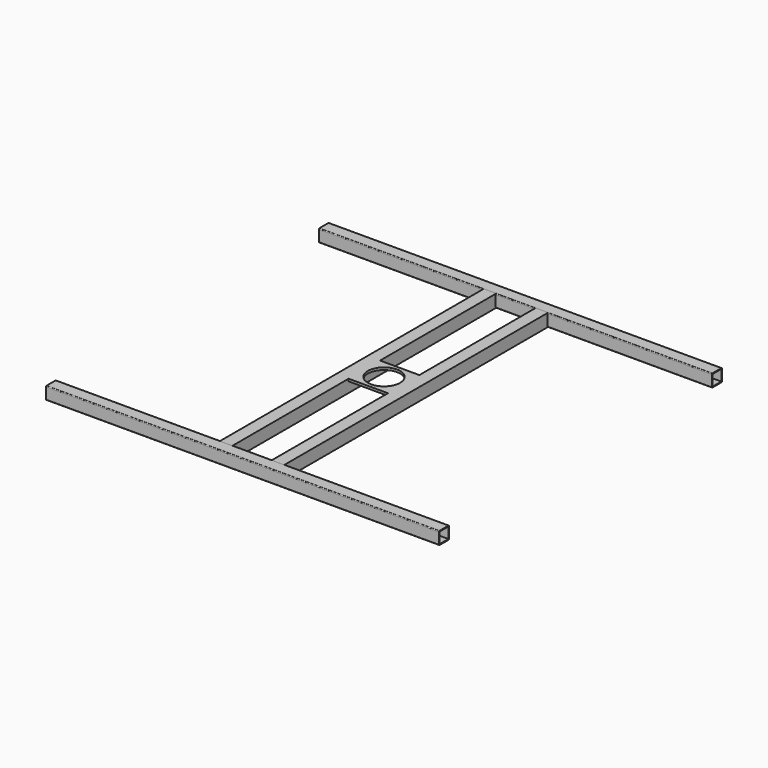
from build123d import *

# Parameters (mm, degrees)
F0_W     = 28
F0_H     = 28
F1_DEPTH = 500
F2_W     = 32
F2_H     = 32
F2_W_2   = 28
F2_H_2   = 28
F3_DEPTH = 420.3
F4_W     = 100
F4_H     = 100
F5_DEPTH = 6
F6_R     = 41
F7_DEPTH = 25


with BuildPart() as f1:
    # F0 (on Right) → F1 (new body, symmetric)
    with BuildSketch(Plane.YZ):
        with BuildLine():
            ThreePointArc((-450, -14), (-449.414214, -15.414214), (-448, -16))
            Line((-448, -16), (-420, -16))
            ThreePointArc((-420, -16), (-418.585786, -15.414214), (-418, -14))
            Line((-418, -14), (-418, 14))
            ThreePointArc((-418, 14), (-418.585786, 15.414214), (-420, 16))
            Line((-420, 16), (-448, 16))
            ThreePointArc((-448, 16), (-449.414214, 15.414214), (-450, 14))
            Line((-450, 14), (-450, -14))
        make_face()
        with Locations((-434, 0)):
            Rectangle(F0_W, F0_H, mode=Mode.SUBTRACT)
        with BuildLine():
            ThreePointArc((450, 14), (449.414214, 15.414214), (448, 16))
            Line((448, 16), (420, 16))
            ThreePointArc((420, 16), (418.585786, 15.414214), (418, 14))
            Line((418, 14), (418, -14))
            ThreePointArc((418, -14), (418.585786, -15.414214), (420, -16))
            Line((420, -16), (448, -16))
            ThreePointArc((448, -16), (449.414214, -15.414214), (450, -14))
            Line((450, -14), (450, 14))
        make_face()
        with Locations((434, 0)):
            Rectangle(F0_W, F0_H, mode=Mode.SUBTRACT)
    extrude(amount=F1_DEPTH, both=True)

    # F2 (on Front) → F3 (join, symmetric)
    with BuildSketch(Plane.XZ):
        with Locations((-66, -0.042497)):
            Rectangle(F2_W, F2_H)
        with Locations((-66, -0.042497)):
            Rectangle(F2_W_2, F2_H_2, mode=Mode.SUBTRACT)
        with Locations((66, -0.042497)):
            Rectangle(F2_W, F2_H)
        with Locations((66, -0.042497)):
            Rectangle(F2_W_2, F2_H_2, mode=Mode.SUBTRACT)
    extrude(amount=F3_DEPTH, both=True)

    # F4 (on face) → F5 (join)
    with BuildSketch(Plane.XY.offset(15.957503)):
        Rectangle(F4_W, F4_H)
    extrude(amount=-F5_DEPTH)

    # F6 (on face) → F7 (cut)
    with BuildSketch(Plane.XY.offset(15.957503)):
        Circle(F6_R)
    extrude(amount=-F7_DEPTH, mode=Mode.SUBTRACT)


solid = f1.part
